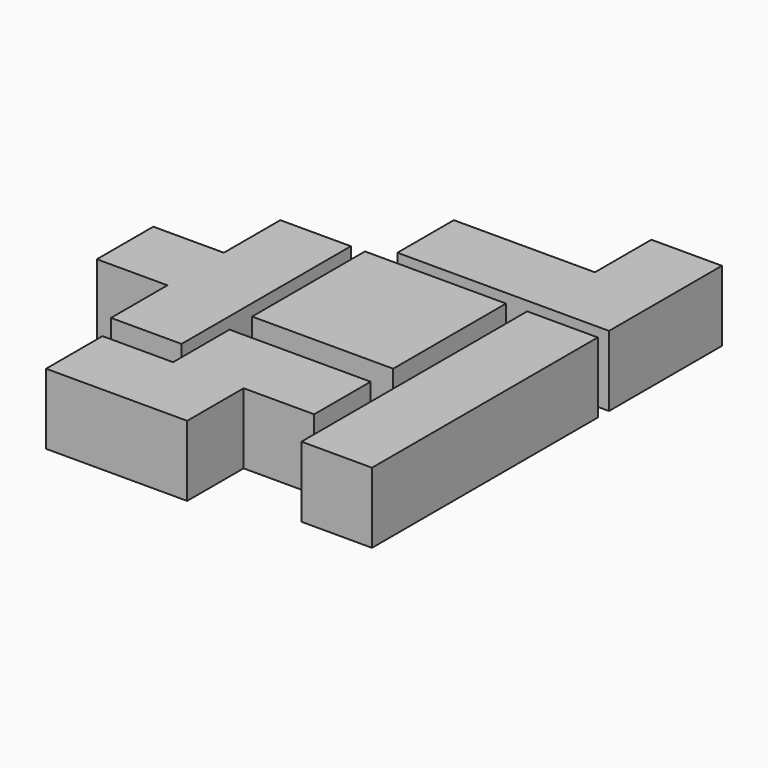
from build123d import *

# Parameters (mm, degrees)
BOX001_W                  = 10
BOX001_H                  = 10
BOX001_DEPTH              = 10
BOX_W                     = 10
BOX_H                     = 10
BOX_DEPTH                 = 10
BOX003_W                  = 10
BOX003_H                  = 10
BOX003_DEPTH              = 10
BOX002_W                  = 10
BOX002_H                  = 10
BOX002_DEPTH              = 10
BOX007_W                  = 10
BOX007_H                  = 10
BOX007_DEPTH              = 10
BOX005_W                  = 10
BOX005_H                  = 10
BOX005_DEPTH              = 10
BOX004_W                  = 10
BOX004_H                  = 10
BOX004_DEPTH              = 10
BOX006_W                  = 10
BOX006_H                  = 10
BOX006_DEPTH              = 10
FUSION007_PLACEMENT_ANGLE = 90
BOX010_W                  = 10
BOX010_H                  = 10
BOX010_DEPTH              = 10
BOX011_W                  = 10
BOX011_H                  = 10
BOX011_DEPTH              = 10
BOX009_W                  = 10
BOX009_H                  = 10
BOX009_DEPTH              = 10
BOX008_W                  = 10
BOX008_H                  = 10
BOX008_DEPTH              = 10
FUSION010_PLACEMENT_ANGLE = 270
BOX012_W                  = 10
BOX012_H                  = 10
BOX012_DEPTH              = 10
BOX013_W                  = 10
BOX013_H                  = 10
BOX013_DEPTH              = 10
BOX014_W                  = 10
BOX014_H                  = 10
BOX014_DEPTH              = 10
BOX015_W                  = 10
BOX015_H                  = 10
BOX015_DEPTH              = 10
BOX017_W                  = 10
BOX017_H                  = 10
BOX017_DEPTH              = 10
BOX018_W                  = 10
BOX018_H                  = 10
BOX018_DEPTH              = 10
BOX019_W                  = 10
BOX019_H                  = 10
BOX019_DEPTH              = 10
BOX016_W                  = 10
BOX016_H                  = 10
BOX016_DEPTH              = 10


with BuildPart() as cub001:
    # Box001 → Box001 (new body)
    with BuildSketch(Plane(origin=(0, 10, 0), x_dir=(1, 0, 0), z_dir=(0, 0, 1))):
        with Locations((5, 5)):
            Rectangle(BOX001_W, BOX001_H)
    extrude(amount=BOX001_DEPTH)


with BuildPart() as cub:
    # Box → Box (new body)
    with BuildSketch(Plane(origin=(0, -20, 0), x_dir=(1, 0, 0), z_dir=(0, 0, 1))):
        with Locations((5, 5)):
            Rectangle(BOX_W, BOX_H)
    extrude(amount=BOX_DEPTH)


with BuildPart() as fusion001:
    # Fusion001 base: copy of Cub
    add(cub.part)

    # Fusion001: union Cub001
    add(cub001.part)


with BuildPart() as fusion:
    # Fusion base: copy of Cub
    add(cub.part)

    # Fusion: union Cub001
    add(cub001.part)


with BuildPart() as cub003:
    # Box003 → Box003 (new body)
    with BuildSketch(Plane(origin=(0, -10, 0), x_dir=(1, 0, 0), z_dir=(0, 0, 1))):
        with Locations((5, 5)):
            Rectangle(BOX003_W, BOX003_H)
    extrude(amount=BOX003_DEPTH)


with BuildPart() as fusion004:
    # Box002 → Box002 (new body)
    with BuildSketch(Plane.XY):
        with Locations((5, 5)):
            Rectangle(BOX002_W, BOX002_H)
    extrude(amount=BOX002_DEPTH)

    # Fusion002: union Cub003
    add(cub003.part)

    # Fusion003: union Fusion
    add(fusion.part)

    # Fusion004: union Fusion001
    add(fusion001.part)


with BuildPart() as fusion004_1:
    # Fusion004 placement: moved
    add(fusion004.part.moved(Location((21, 0, 0))))


with BuildPart() as cub007:
    # Box007 → Box007 (new body)
    with BuildSketch(Plane.XY):
        with Locations((5, 5)):
            Rectangle(BOX007_W, BOX007_H)
    extrude(amount=BOX007_DEPTH)


with BuildPart() as cub005:
    # Box005 → Box005 (new body)
    with BuildSketch(Plane(origin=(-10, 0, 0), x_dir=(1, 0, 0), z_dir=(0, 0, 1))):
        with Locations((5, 5)):
            Rectangle(BOX005_W, BOX005_H)
    extrude(amount=BOX005_DEPTH)


with BuildPart() as fusion006:
    # Box004 → Box004 (new body)
    with BuildSketch(Plane(origin=(0, -10, 0), x_dir=(1, 0, 0), z_dir=(0, 0, 1))):
        with Locations((5, 5)):
            Rectangle(BOX004_W, BOX004_H)
    extrude(amount=BOX004_DEPTH)

    # Fusion005: union Cub005
    add(cub005.part)

    # Fusion006: union Cub007
    add(cub007.part)


with BuildPart() as fusion007:
    # Box006 → Box006 (new body)
    with BuildSketch(Plane(origin=(-10, 10, 0), x_dir=(1, 0, 0), z_dir=(0, 0, 1))):
        with Locations((5, 5)):
            Rectangle(BOX006_W, BOX006_H)
    extrude(amount=BOX006_DEPTH)

    # Fusion007: union Fusion006
    add(fusion006.part)


with BuildPart() as fusion007_1:
    # Fusion007 placement: moved
    add(fusion007.part.moved(Location((8, -14, 0))).rotate(Axis((8, -14, 0), (0, 0, 1)), FUSION007_PLACEMENT_ANGLE))


with BuildPart() as cub010:
    # Box010 → Box010 (new body)
    with BuildSketch(Plane(origin=(-10, 0, 0), x_dir=(1, 0, 0), z_dir=(0, 0, 1))):
        with Locations((5, 5)):
            Rectangle(BOX010_W, BOX010_H)
    extrude(amount=BOX010_DEPTH)


with BuildPart() as fusion009:
    # Box011 → Box011 (new body)
    with BuildSketch(Plane.XY):
        with Locations((5, 5)):
            Rectangle(BOX011_W, BOX011_H)
    extrude(amount=BOX011_DEPTH)

    # Fusion009: union Cub010
    add(cub010.part)


with BuildPart() as cub009:
    # Box009 → Box009 (new body)
    with BuildSketch(Plane(origin=(0, -20, 0), x_dir=(1, 0, 0), z_dir=(0, 0, 1))):
        with Locations((5, 5)):
            Rectangle(BOX009_W, BOX009_H)
    extrude(amount=BOX009_DEPTH)


with BuildPart() as fusion010:
    # Box008 → Box008 (new body)
    with BuildSketch(Plane(origin=(0, -10, 0), x_dir=(1, 0, 0), z_dir=(0, 0, 1))):
        with Locations((5, 5)):
            Rectangle(BOX008_W, BOX008_H)
    extrude(amount=BOX008_DEPTH)

    # Fusion008: union Cub009
    add(cub009.part)

    # Fusion010: union Fusion009
    add(fusion009.part)


with BuildPart() as fusion010_1:
    # Fusion010 placement: moved
    add(fusion010.part.moved(Location((21, 32, 0))).rotate(Axis((21, 32, 0), (0, 0, 1)), FUSION010_PLACEMENT_ANGLE))


with BuildPart() as cub012:
    # Box012 → Box012 (new body)
    with BuildSketch(Plane(origin=(0, -10, 0), x_dir=(1, 0, 0), z_dir=(0, 0, 1))):
        with Locations((5, 5)):
            Rectangle(BOX012_W, BOX012_H)
    extrude(amount=BOX012_DEPTH)


with BuildPart() as cub013:
    # Box013 → Box013 (new body)
    with BuildSketch(Plane(origin=(0, 10, 0), x_dir=(1, 0, 0), z_dir=(0, 0, 1))):
        with Locations((5, 5)):
            Rectangle(BOX013_W, BOX013_H)
    extrude(amount=BOX013_DEPTH)


with BuildPart() as cub014:
    # Box014 → Box014 (new body)
    with BuildSketch(Plane(origin=(-10, 0, 0), x_dir=(1, 0, 0), z_dir=(0, 0, 1))):
        with Locations((5, 5)):
            Rectangle(BOX014_W, BOX014_H)
    extrude(amount=BOX014_DEPTH)


with BuildPart() as fusion012:
    # Box015 → Box015 (new body)
    with BuildSketch(Plane.XY):
        with Locations((5, 5)):
            Rectangle(BOX015_W, BOX015_H)
    extrude(amount=BOX015_DEPTH)

    # Fusion011: union Cub013, Cub014
    add(cub013.part)
    add(cub014.part)

    # Fusion012: union Cub012
    add(cub012.part)


with BuildPart() as fusion012_1:
    # Fusion012 placement: moved
    add(fusion012.part.moved(Location((-14, 0, 0))))


with BuildPart() as cub017:
    # Box017 → Box017 (new body)
    with BuildSketch(Plane(origin=(-10, 0, 0), x_dir=(1, 0, 0), z_dir=(0, 0, 1))):
        with Locations((5, 5)):
            Rectangle(BOX017_W, BOX017_H)
    extrude(amount=BOX017_DEPTH)


with BuildPart() as cub018:
    # Box018 → Box018 (new body)
    with BuildSketch(Plane(origin=(-10, -10, 0), x_dir=(1, 0, 0), z_dir=(0, 0, 1))):
        with Locations((5, 5)):
            Rectangle(BOX018_W, BOX018_H)
    extrude(amount=BOX018_DEPTH)


with BuildPart() as cub019:
    # Box019 → Box019 (new body)
    with BuildSketch(Plane.XY):
        with Locations((5, 5)):
            Rectangle(BOX019_W, BOX019_H)
    extrude(amount=BOX019_DEPTH)


with BuildPart() as fusion013:
    # Box016 → Box016 (new body)
    with BuildSketch(Plane(origin=(0, -10, 0), x_dir=(1, 0, 0), z_dir=(0, 0, 1))):
        with Locations((5, 5)):
            Rectangle(BOX016_W, BOX016_H)
    extrude(amount=BOX016_DEPTH)

    # Fusion013: union Cub017, Cub018, Cub019
    add(cub017.part)
    add(cub018.part)
    add(cub019.part)


with BuildPart() as fusion013_1:
    # Fusion013 placement: moved
    add(fusion013.part.moved(Location((8, 10, 0))))


solid = Compound([fusion004_1.part, fusion007_1.part, fusion010_1.part, fusion012_1.part, fusion013_1.part])
